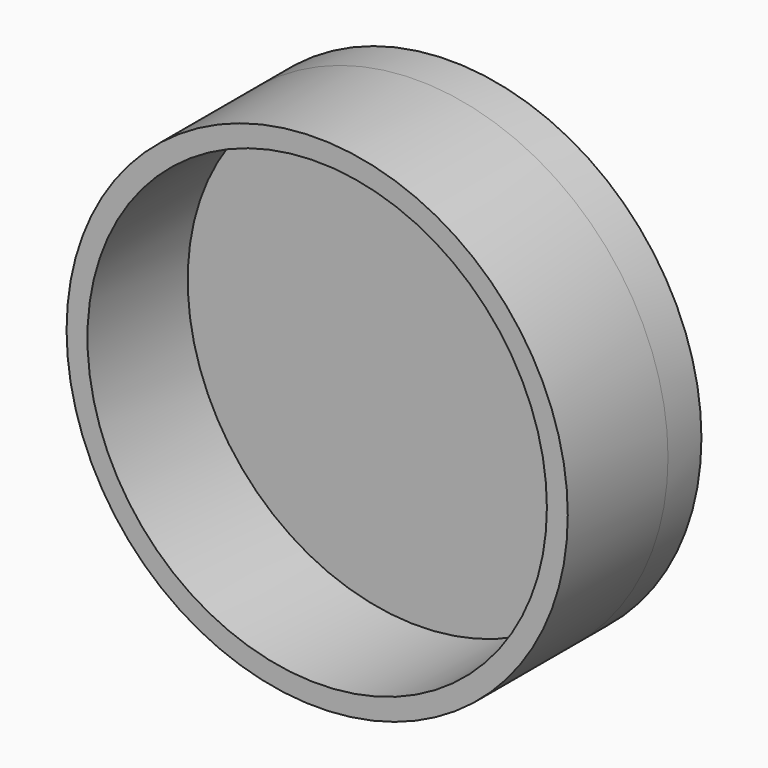
from build123d import *

# Parameters (mm, degrees)
F0_R     = 38.1
F1_DEPTH = 6.35
F2_R     = 38.1
F2_R_2   = 34.925
F4_DEPTH = 19.05


with BuildPart() as f1:
    # F0 (on Front) → F1 (new body)
    with BuildSketch(Plane.XZ):
        Circle(F0_R)
    extrude(amount=-F1_DEPTH)

    # F2 (on face) → F4 (join)
    with BuildSketch(Plane.XZ):
        Circle(F2_R)
        Circle(F2_R_2, mode=Mode.SUBTRACT)
    extrude(amount=F4_DEPTH)


solid = f1.part
